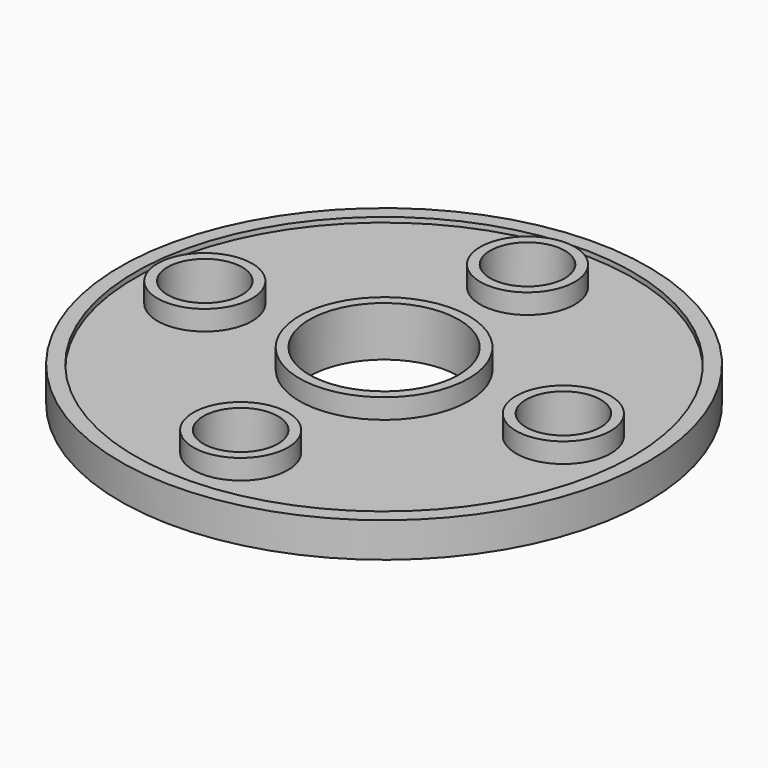
from build123d import *

# Parameters (mm, degrees)
F0_R     = 53
F0_R_2   = 50
F1_DEPTH = 7
F0_R_3   = 9.5
F0_R_4   = 17
F2_DEPTH = 6
F0_R_5   = 7.5
F0_R_6   = 15
F3_DEPTH = 10


with BuildPart() as f1:
    # F0 (on Top) → F1 (new body)
    with BuildSketch(Plane.XY):
        Circle(F0_R)
        Circle(F0_R_2, mode=Mode.SUBTRACT)
    extrude(amount=F1_DEPTH)

    # F0 (on Top) → F2 (join)
    with BuildSketch(Plane.XY):
        Circle(F0_R)
        Circle(F0_R_2, mode=Mode.SUBTRACT)
        Circle(F0_R_2)
        with Locations((0, -36)):
            Circle(F0_R_3, mode=Mode.SUBTRACT)
        with Locations((-36, 0)):
            Circle(F0_R_3, mode=Mode.SUBTRACT)
        Circle(F0_R_4, mode=Mode.SUBTRACT)
        with Locations((36, 0)):
            Circle(F0_R_3, mode=Mode.SUBTRACT)
        with Locations((0, 36)):
            Circle(F0_R_3, mode=Mode.SUBTRACT)
    extrude(amount=F2_DEPTH)

    # F0 (on Top) → F3 (join)
    with BuildSketch(Plane.XY):
        with Locations((0, 36)):
            Circle(F0_R_3)
        with Locations((0, 36)):
            Circle(F0_R_5, mode=Mode.SUBTRACT)
        with Locations((36, 0)):
            Circle(F0_R_3)
        with Locations((36, 0)):
            Circle(F0_R_5, mode=Mode.SUBTRACT)
        with Locations((-36, 0)):
            Circle(F0_R_3)
        with Locations((-36, 0)):
            Circle(F0_R_5, mode=Mode.SUBTRACT)
        with Locations((0, -36)):
            Circle(F0_R_3)
        with Locations((0, -36)):
            Circle(F0_R_5, mode=Mode.SUBTRACT)
        Circle(F0_R_4)
        Circle(F0_R_6, mode=Mode.SUBTRACT)
    extrude(amount=F3_DEPTH)


solid = f1.part
